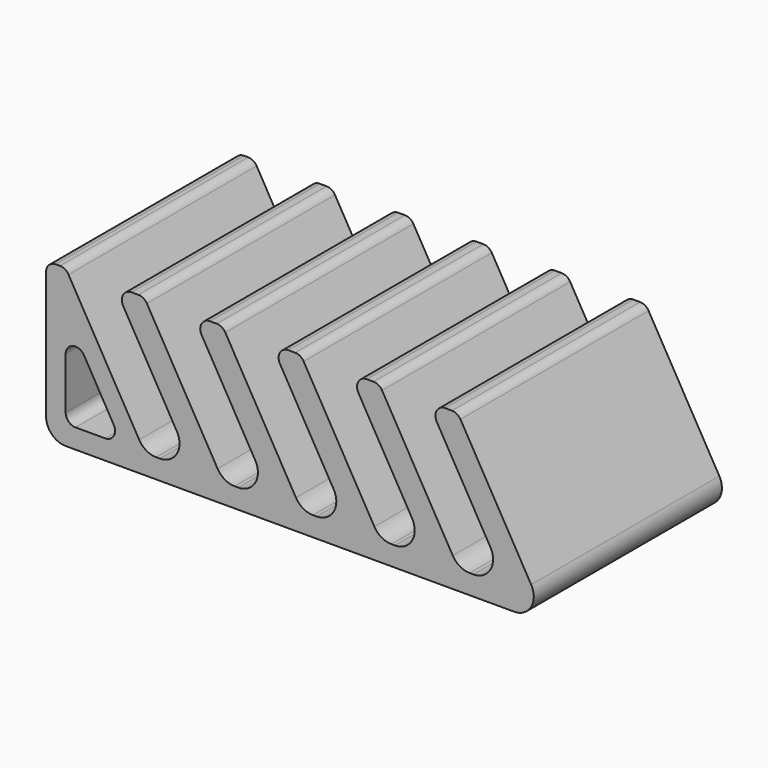
from build123d import *

# Parameters (mm, degrees)
F1_DEPTH = 76.2


with BuildPart() as f1:
    # F0 (on Front) → F1 (new body)
    with BuildSketch(Plane.XZ):
        with BuildLine():
            Line((0, 47.625), (0, 6.35))
            ThreePointArc((0, 6.35), (1.859872, 1.859872), (6.35, 0))
            Line((6.35, 0), (151.680871, 0))
            ThreePointArc((151.680871, 0), (157.180132, 3.175), (157.180132, 9.525))
            Line((157.180132, 9.525), (134.266544, 49.2125))
            ThreePointArc((134.266544, 49.2125), (133.104413, 50.374631), (131.516913, 50.8))
            Line((131.516913, 50.8), (129.324261, 50.8))
            ThreePointArc((129.324261, 50.8), (126.574631, 49.2125), (126.574631, 46.0375))
            Line((126.574631, 46.0375), (143.988958, 15.875))
            ThreePointArc((143.988958, 15.875), (143.988958, 9.525), (138.489697, 6.35))
            Line((138.489697, 6.35), (137.279394, 6.35))
            ThreePointArc((137.279394, 6.35), (134.104394, 7.200739), (131.780132, 9.525))
            Line((131.780132, 9.525), (108.866544, 49.2125))
            ThreePointArc((108.866544, 49.2125), (107.704413, 50.374631), (106.116913, 50.8))
            Line((106.116913, 50.8), (103.924261, 50.8))
            ThreePointArc((103.924261, 50.8), (101.174631, 49.2125), (101.174631, 46.0375))
            Line((101.174631, 46.0375), (118.588958, 15.875))
            ThreePointArc((118.588958, 15.875), (118.588958, 9.525), (113.089697, 6.35))
            Line((113.089697, 6.35), (111.879394, 6.35))
            ThreePointArc((111.879394, 6.35), (108.704394, 7.200739), (106.380132, 9.525))
            Line((106.380132, 9.525), (83.466544, 49.2125))
            ThreePointArc((83.466544, 49.2125), (82.304413, 50.374631), (80.716913, 50.8))
            Line((80.716913, 50.8), (78.524261, 50.8))
            ThreePointArc((78.524261, 50.8), (75.774631, 49.2125), (75.774631, 46.0375))
            Line((75.774631, 46.0375), (93.188958, 15.875))
            ThreePointArc((93.188958, 15.875), (93.188958, 9.525), (87.689697, 6.35))
            Line((87.689697, 6.35), (86.479394, 6.35))
            ThreePointArc((86.479394, 6.35), (83.304394, 7.200739), (80.980132, 9.525))
            Line((80.980132, 9.525), (58.066544, 49.2125))
            ThreePointArc((58.066544, 49.2125), (56.904413, 50.374631), (55.316913, 50.8))
            Line((55.316913, 50.8), (53.124261, 50.8))
            ThreePointArc((53.124261, 50.8), (50.374631, 49.2125), (50.374631, 46.0375))
            Line((50.374631, 46.0375), (67.788958, 15.875))
            ThreePointArc((67.788958, 15.875), (67.788958, 9.525), (62.289697, 6.35))
            Line((62.289697, 6.35), (61.079394, 6.35))
            ThreePointArc((61.079394, 6.35), (57.904394, 7.200739), (55.580132, 9.525))
            Line((55.580132, 9.525), (32.666544, 49.2125))
            ThreePointArc((32.666544, 49.2125), (31.504413, 50.374631), (29.916913, 50.8))
            Line((29.916913, 50.8), (27.724261, 50.8))
            ThreePointArc((27.724261, 50.8), (24.974631, 49.2125), (24.974631, 46.0375))
            Line((24.974631, 46.0375), (42.388958, 15.875))
            ThreePointArc((42.388958, 15.875), (42.388958, 9.525), (36.889697, 6.35))
            Line((36.889697, 6.35), (35.679394, 6.35))
            ThreePointArc((35.679394, 6.35), (32.504394, 7.200739), (30.180132, 9.525))
            Line((30.180132, 9.525), (7.266544, 49.2125))
            ThreePointArc((7.266544, 49.2125), (6.104413, 50.374631), (4.516913, 50.8))
            Line((4.516913, 50.8), (3.175, 50.8))
            ThreePointArc((3.175, 50.8), (0.929936, 49.870064), (0, 47.625))
        make_face()
        with BuildLine():
            ThreePointArc((6.35, 26.250739), (8.70325, 29.317553), (12.274631, 27.838239))
            Line((12.274631, 27.838239), (21.93124, 11.1125))
            ThreePointArc((21.93124, 11.1125), (21.93124, 7.9375), (19.18161, 6.35))
            Line((19.18161, 6.35), (9.525, 6.35))
            ThreePointArc((9.525, 6.35), (7.279936, 7.279936), (6.35, 9.525))
            Line((6.35, 9.525), (6.35, 26.250739))
        make_face(mode=Mode.SUBTRACT)
    extrude(amount=F1_DEPTH)


solid = f1.part
